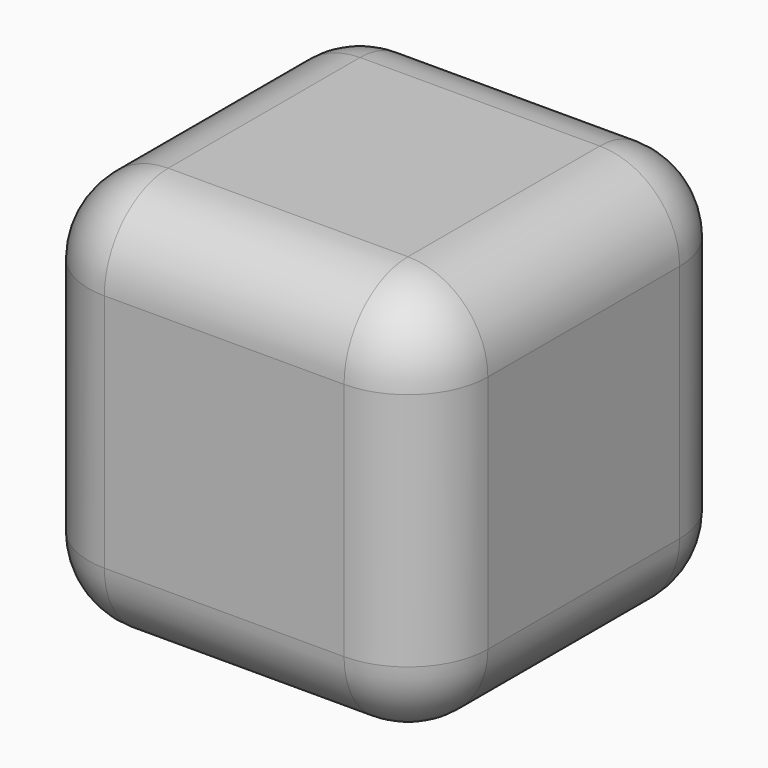
from build123d import *

# Parameters (mm, degrees)
F0_W     = 200
F0_H     = 200
F1_DEPTH = 200
F2_R     = 40
F3_SCALE = 0.9


with BuildPart() as f1:
    # F0 (on Top) → F1 (new body)
    with BuildSketch(Plane.XY):
        Rectangle(F0_W, F0_H)
    extrude(amount=F1_DEPTH)

    # F2
    f2_edges = [f1.edges().sort_by_distance(p)[0] for p in [
        (-100, -100, 100),
        (100, -100, 100),
        (0, -100, 0),
        (0, -100, 200),
        (100, 100, 100),
        (-100, 100, 100),
        (0, 100, 0),
        (0, 100, 200),
        (100, 0, 0),
        (-100, 0, 0),
        (100, 0, 200),
        (-100, 0, 200),
    ]]
    fillet(f2_edges, radius=F2_R)


with BuildPart() as f3_1:
    # F3: copy of F1
    add(f1.part.scale(F3_SCALE))


with BuildPart() as f3_1_1:
    # F4: moved
    add(f3_1.part.moved(Location((0, 0, 10))))


with BuildPart() as f1_1:
    add(f1.part)

    # F5: cut F3_1
    add(f3_1_1.part, mode=Mode.SUBTRACT)


solid = f1_1.part
